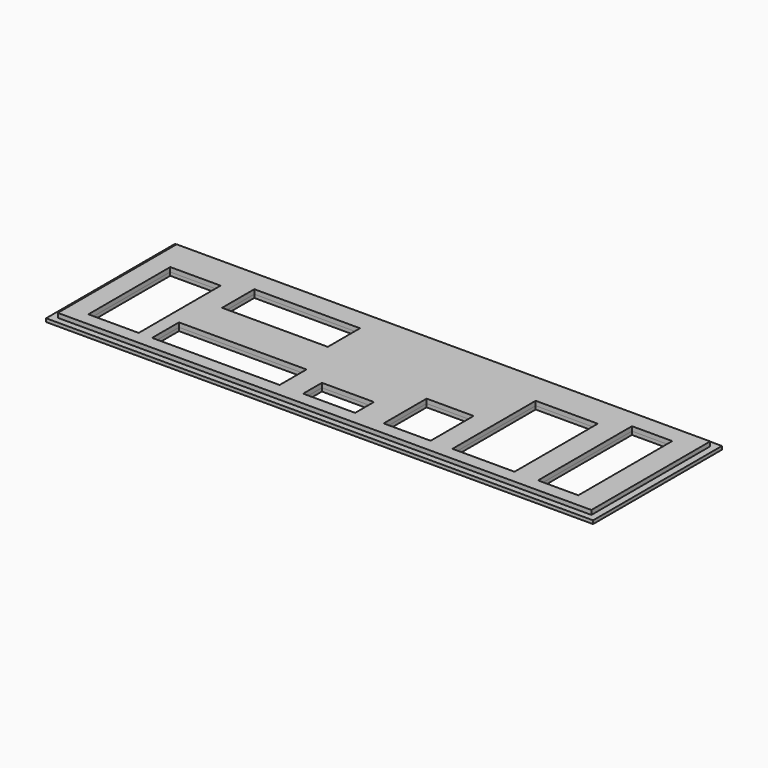
from build123d import *

# Parameters (mm, degrees)
SKETCH_W      = 159
SKETCH_H      = 44.25
SKETCH_W_2    = 12
SKETCH_H_2    = 35
SKETCH_W_3    = 18.5
SKETCH_H_3    = 31
SKETCH_W_4    = 14
SKETCH_H_4    = 16
SKETCH_W_5    = 15.5
SKETCH_H_5    = 7
SKETCH_W_6    = 38
SKETCH_H_6    = 10
SKETCH_W_7    = 31.5
SKETCH_H_7    = 12
SKETCH_W_8    = 15
SKETCH_H_8    = 30.5
PAD001_DEPTH  = 1.3
SKETCH002_W   = 163
SKETCH002_H   = 48
SKETCH002_W_2 = 12
SKETCH002_H_2 = 35
SKETCH002_W_3 = 18.5
SKETCH002_H_3 = 31
SKETCH002_W_4 = 14
SKETCH002_H_4 = 16
SKETCH002_W_5 = 15.5
SKETCH002_H_5 = 7
SKETCH002_W_6 = 38
SKETCH002_H_6 = 10
SKETCH002_W_7 = 31.5
SKETCH002_H_7 = 12
SKETCH002_W_8 = 15
SKETCH002_H_8 = 30.5
PAD_DEPTH     = 1


with BuildPart() as pad001:
    # Sketch → Pad001 (new body)
    with BuildSketch(Plane.XY.offset(1)):
        Rectangle(SKETCH_W, SKETCH_H)
        with Locations((66.5, -0.75)):
            Rectangle(SKETCH_W_2, SKETCH_H_2, mode=Mode.SUBTRACT)
        with Locations((44.25, -2.75)):
            Rectangle(SKETCH_W_3, SKETCH_H_3, mode=Mode.SUBTRACT)
        with Locations((21.5, -10.25)):
            Rectangle(SKETCH_W_4, SKETCH_H_4, mode=Mode.SUBTRACT)
        with Locations((-1.75, -14.75)):
            Rectangle(SKETCH_W_5, SKETCH_H_5, mode=Mode.SUBTRACT)
        with Locations((-35.5, -13.25)):
            Rectangle(SKETCH_W_6, SKETCH_H_6, mode=Mode.SUBTRACT)
        with Locations((-35.5, 9.75)):
            Rectangle(SKETCH_W_7, SKETCH_H_7, mode=Mode.SUBTRACT)
        with Locations((-66, -3)):
            Rectangle(SKETCH_W_8, SKETCH_H_8, mode=Mode.SUBTRACT)
    extrude(amount=PAD001_DEPTH)


with BuildPart() as pad:
    # Sketch002 → Pad (new body)
    with BuildSketch(Plane.XY):
        Rectangle(SKETCH002_W, SKETCH002_H)
        with Locations((66.5, -0.75)):
            Rectangle(SKETCH002_W_2, SKETCH002_H_2, mode=Mode.SUBTRACT)
        with Locations((44.25, -2.75)):
            Rectangle(SKETCH002_W_3, SKETCH002_H_3, mode=Mode.SUBTRACT)
        with Locations((21.5, -10.25)):
            Rectangle(SKETCH002_W_4, SKETCH002_H_4, mode=Mode.SUBTRACT)
        with Locations((-1.75, -14.75)):
            Rectangle(SKETCH002_W_5, SKETCH002_H_5, mode=Mode.SUBTRACT)
        with Locations((-35.5, -13.25)):
            Rectangle(SKETCH002_W_6, SKETCH002_H_6, mode=Mode.SUBTRACT)
        with Locations((-35.5, 9.75)):
            Rectangle(SKETCH002_W_7, SKETCH002_H_7, mode=Mode.SUBTRACT)
        with Locations((-66, -3)):
            Rectangle(SKETCH002_W_8, SKETCH002_H_8, mode=Mode.SUBTRACT)
    extrude(amount=PAD_DEPTH)


solid = Compound([pad001.part, pad.part])
